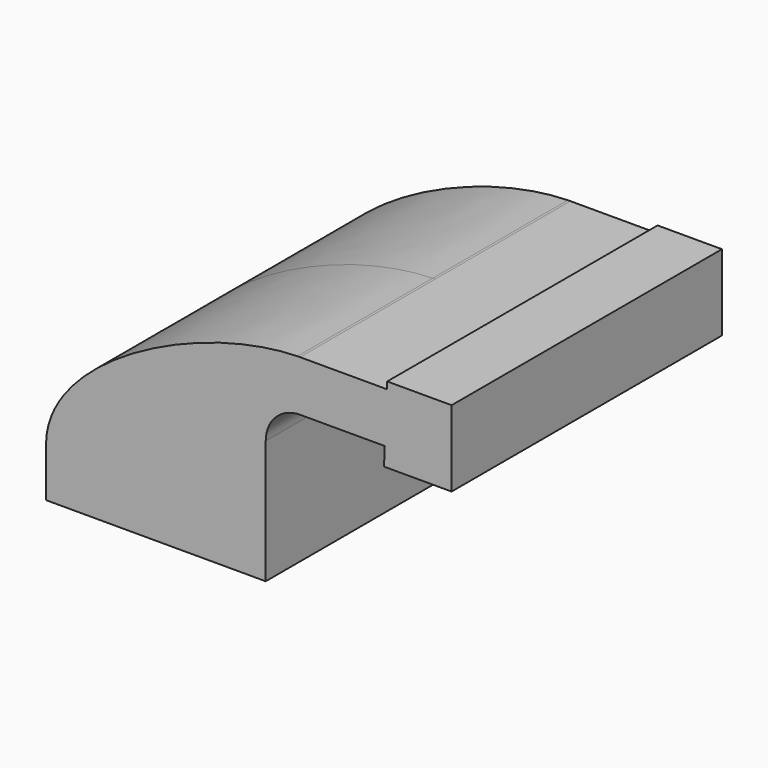
from build123d import *

# Parameters (mm, degrees)
F1_DEPTH = 63.5


with BuildPart() as f1:
    # F0 (on Front) → F1 (new body, symmetric)
    with BuildSketch(Plane.XZ):
        Polygon((22.225, 9.525), (-41.275, 9.525), (-41.275, -9.525), (41.275, -9.525), (41.275, 9.525), align=None)
        with BuildLine():
            add(Edge.make_bspline(
                [(-41.275, 9.525), (-40.5857030926, 39.8340139473), (16.2988504343, 68.0403953108), (53.2132404855, 68.8199768106)],
                knots=[0, 0, 0, 0, 111.4061302188, 111.4061302188, 111.4061302188, 111.4061302188], degree=3))
            Line((-41.275, 9.525), (22.225, 9.525))
            Line((22.225, 9.525), (22.225, 36.9006536255))
            ThreePointArc((22.225, 36.9006536255), (31.2463536192, 59.1442720417), (53.2132404855, 68.8199768106))
        make_face()
        with BuildLine():
            Line((22.225, 36.9006536255), (22.225, 9.525))
            Line((22.225, 9.525), (41.275, 9.525))
            Line((41.275, 9.525), (41.275, 36.9006536255))
            ThreePointArc((41.275, 36.9006536255), (45.0484344252, 46.0105301915), (54.1583109911, 49.7839646167))
            Line((54.1583109911, 49.7839646167), (60.325, 49.7839646167))
            Line((60.325, 49.7839646167), (60.325, 68.8339646167))
            Line((60.325, 68.8339646167), (54.1583109911, 68.8339646167))
            add(Edge.make_bspline(
                [(53.2132404855, 68.8199768106), (53.5297481002, 68.8266610192), (53.8447876051, 68.831328942), (54.1583109911, 68.8339646167)],
                knots=[111.4061302188, 111.4061302188, 111.4061302188, 111.4061302188, 112.361337348, 112.361337348, 112.361337348, 112.361337348], degree=3))
            ThreePointArc((53.2132404855, 68.8199768106), (31.2463536192, 59.1442720417), (22.225, 36.9006536255))
        make_face()
        Polygon((86.8223277951, 68.8339646167), (60.325, 68.8339646167), (60.325, 49.7839646167), (86.0170470044, 49.7839646167), align=None)
        Polygon((86.9329211861, 71.4502), (86.8223277951, 68.8339646167), (86.0170470044, 49.7839646167), (85.725, 42.8752), (111.125, 42.8752), (111.125, 71.4502), align=None)
    extrude(amount=F1_DEPTH, both=True)


solid = f1.part
